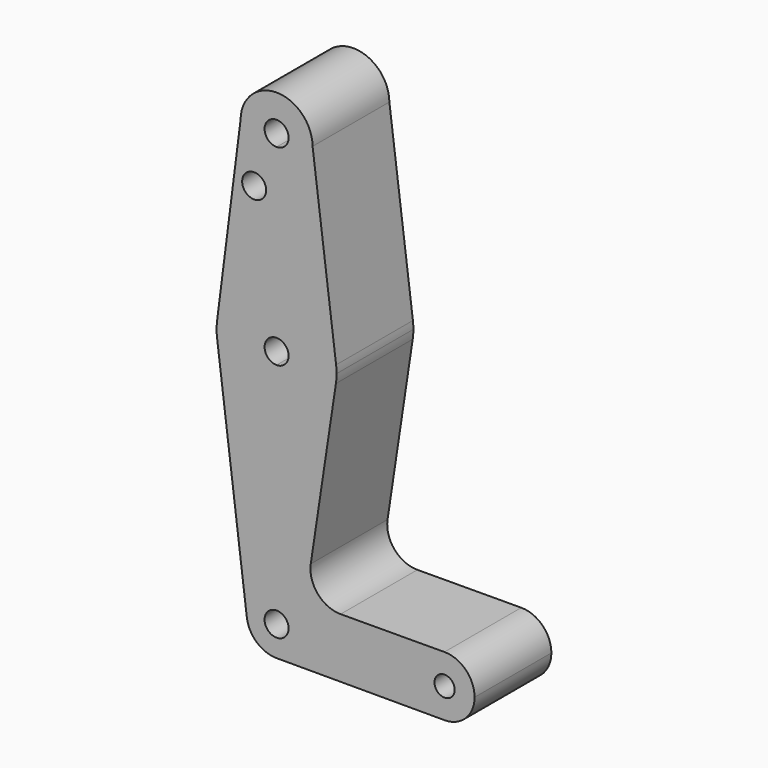
from build123d import *

# Parameters (mm, degrees)
F0_R     = 3.175
F0_R_2   = 2.6811430303
F1_DEPTH = 25.4
F2_DEPTH = 25.4
F3_DEPTH = 25.4


with BuildPart() as f1:
    # F0 (on Front) → F1 (new body)
    with BuildSketch(Plane.XZ):
        with BuildLine():
            ThreePointArc((-9.5246666481, 50.8796884045), (-6.7633075138, 44.0930411904), (0, 41.275))
            ThreePointArc((0, 41.275), (6.7351920908, 44.0648079092), (9.525, 50.8))
            ThreePointArc((9.525, 50.8), (9.5249382463, 50.8342987513), (9.524752986, 50.8685970579))
            ThreePointArc((9.524752986, 50.8685970579), (0.0055458414, 60.3249983855), (-9.5246666481, 50.8796884045))
        make_face()
        with BuildLine():
            ThreePointArc((3.175, 50.8), (2.2450640303, 48.5549359697), (0, 47.625))
            ThreePointArc((0, 47.625), (-2.2450640303, 53.0450640303), (3.175, 50.8))
        make_face(mode=Mode.SUBTRACT)
        with BuildLine():
            ThreePointArc((9.525, 50.8), (6.7351920908, 44.0648079092), (0, 41.275))
            Line((0, 41.275), (0, 36.5252))
            Line((0, 36.5252), (0, 15.875))
            ThreePointArc((0, 15.875), (10.4923027044, 11.9133206521), (15.7478005035, 2.0055932546))
            Line((15.7478005035, 2.0055932546), (9.524752986, 50.8685970579))
            ThreePointArc((9.524752986, 50.8685970579), (9.5249382463, 50.8342987513), (9.525, 50.8))
        make_face()
        with BuildLine():
            Line((0, 36.5252), (0, 41.275))
            ThreePointArc((0, 41.275), (-6.7633075138, 44.0930411904), (-9.5246666481, 50.8796884045))
            Line((-9.5246666481, 50.8796884045), (-15.747854052, 2.0051727503))
            ThreePointArc((-15.747854052, 2.0051727503), (-10.4924617605, 11.9131805663), (0, 15.875))
            Line((0, 15.875), (0, 36.5252))
        make_face()
        with Locations((-5.9342440218, 36.6497449577)):
            Circle(F0_R, mode=Mode.SUBTRACT)
        with BuildLine():
            ThreePointArc((15.7478005035, 2.0055932546), (10.4923027044, 11.9133206521), (0, 15.875))
            Line((0, 15.875), (0, 3.175))
            ThreePointArc((0, 3.175), (2.2450640303, 2.2450640303), (3.175, 0))
            ThreePointArc((3.175, 0), (2.2450640303, -2.2450640303), (0, -3.175))
            Line((0, -3.175), (0, -15.875))
            ThreePointArc((0, -15.875), (10.3554540779, -12.0324642464), (15.697843269, -2.3650246727))
            ThreePointArc((15.697843269, -2.3650246727), (15.8306488638, -1.1858252622), (15.875, 0))
            ThreePointArc((15.875, 0), (15.8431682121, 1.004811427), (15.7478005035, 2.0055932546))
        make_face()
        with BuildLine():
            Line((0, 3.175), (0, 15.875))
            ThreePointArc((0, 15.875), (-10.4924617605, 11.9131805663), (-15.747854052, 2.0051727503))
            ThreePointArc((-15.747854052, 2.0051727503), (-15.8742138864, -0.1579825563), (-15.7048272525, -2.3181945497))
            ThreePointArc((-15.7048272525, -2.3181945497), (-10.3733862968, -12.0170080194), (0, -15.875))
            Line((0, -15.875), (0, -3.175))
            ThreePointArc((0, -3.175), (-3.175, 0), (0, 3.175))
        make_face()
        with BuildLine():
            ThreePointArc((0, -15.875), (-10.3733862968, -12.0170080194), (-15.7048272525, -2.3181945497))
            Line((-15.7048272525, -2.3181945497), (-7.8753007349, -64.4917381631))
            ThreePointArc((-7.8753007349, -64.4917381631), (-5.9529752192, -58.2496674115), (0, -55.5625))
            Line((0, -55.5625), (0, -15.875))
        make_face()
        with BuildLine():
            ThreePointArc((15.697843269, -2.3650246727), (10.3554540779, -12.0324642464), (0, -15.875))
            Line((0, -15.875), (0, -55.5625))
            ThreePointArc((0, -55.5625), (5.6126600757, -57.8873399243), (7.9375, -63.5))
            ThreePointArc((7.9375, -63.5), (5.6126600757, -69.1126600757), (0, -71.4375))
            Line((0, -71.4375), (44.45, -71.4375))
            ThreePointArc((44.45, -71.4375), (36.5125174611, -63.5166491853), (44.4167017026, -55.5625698445))
            Line((44.4167017026, -55.5625698445), (16.9368082183, -55.6778506909))
            ThreePointArc((16.9368082183, -55.6778506909), (10.8884896462, -52.9263600902), (9.0419767345, -46.543316291))
            Line((9.0419767345, -46.543316291), (15.697843269, -2.3650246727))
        make_face()
        with BuildLine():
            ThreePointArc((0, -55.5625), (-5.9529752192, -58.2496674115), (-7.8753007349, -64.4917381631))
            ThreePointArc((-7.8753007349, -64.4917381631), (-5.2503325885, -69.4529752192), (0, -71.4375))
            ThreePointArc((0, -71.4375), (5.6126600757, -69.1126600757), (7.9375, -63.5))
            ThreePointArc((7.9375, -63.5), (5.6126600757, -57.8873399243), (0, -55.5625))
        make_face()
        with BuildLine():
            ThreePointArc((3.175, -63.5), (-2.2450640303, -65.7450640303), (0, -60.325))
            ThreePointArc((0, -60.325), (2.2450640303, -61.2549359697), (3.175, -63.5))
        make_face(mode=Mode.SUBTRACT)
        with BuildLine():
            ThreePointArc((44.4167017026, -55.5625698445), (36.5125174611, -63.5166491853), (44.45, -71.4375))
            ThreePointArc((44.45, -71.4375), (50.0626600757, -69.1126600757), (52.3875, -63.5))
            ThreePointArc((52.3875, -63.5), (50.0508749769, -57.8755795194), (44.4167017026, -55.5625698445))
        make_face()
        with Locations((44.45, -63.5)):
            Circle(F0_R_2, mode=Mode.SUBTRACT)
    extrude(amount=F1_DEPTH)

    # F0 (on Front) → F2 (join)
    with BuildSketch(Plane.XZ):
        with BuildLine():
            ThreePointArc((-9.5246666481, 50.8796884045), (-6.7633075138, 44.0930411904), (0, 41.275))
            ThreePointArc((0, 41.275), (6.7351920908, 44.0648079092), (9.525, 50.8))
            ThreePointArc((9.525, 50.8), (9.5249382463, 50.8342987513), (9.524752986, 50.8685970579))
            ThreePointArc((9.524752986, 50.8685970579), (0.0055458414, 60.3249983855), (-9.5246666481, 50.8796884045))
        make_face()
        with BuildLine():
            ThreePointArc((3.175, 50.8), (2.2450640303, 48.5549359697), (0, 47.625))
            ThreePointArc((0, 47.625), (-2.2450640303, 53.0450640303), (3.175, 50.8))
        make_face(mode=Mode.SUBTRACT)
        with BuildLine():
            ThreePointArc((9.525, 50.8), (6.7351920908, 44.0648079092), (0, 41.275))
            Line((0, 41.275), (0, 36.5252))
            Line((0, 36.5252), (0, 15.875))
            ThreePointArc((0, 15.875), (10.4923027044, 11.9133206521), (15.7478005035, 2.0055932546))
            Line((15.7478005035, 2.0055932546), (9.524752986, 50.8685970579))
            ThreePointArc((9.524752986, 50.8685970579), (9.5249382463, 50.8342987513), (9.525, 50.8))
        make_face()
        with BuildLine():
            Line((0, 36.5252), (0, 41.275))
            ThreePointArc((0, 41.275), (-6.7633075138, 44.0930411904), (-9.5246666481, 50.8796884045))
            Line((-9.5246666481, 50.8796884045), (-15.747854052, 2.0051727503))
            ThreePointArc((-15.747854052, 2.0051727503), (-10.4924617605, 11.9131805663), (0, 15.875))
            Line((0, 15.875), (0, 36.5252))
        make_face()
        with Locations((-5.9342440218, 36.6497449577)):
            Circle(F0_R, mode=Mode.SUBTRACT)
        with BuildLine():
            ThreePointArc((15.7478005035, 2.0055932546), (10.4923027044, 11.9133206521), (0, 15.875))
            Line((0, 15.875), (0, 3.175))
            ThreePointArc((0, 3.175), (2.2450640303, 2.2450640303), (3.175, 0))
            ThreePointArc((3.175, 0), (2.2450640303, -2.2450640303), (0, -3.175))
            Line((0, -3.175), (0, -15.875))
            ThreePointArc((0, -15.875), (10.3554540779, -12.0324642464), (15.697843269, -2.3650246727))
            ThreePointArc((15.697843269, -2.3650246727), (15.8306488638, -1.1858252622), (15.875, 0))
            ThreePointArc((15.875, 0), (15.8431682121, 1.004811427), (15.7478005035, 2.0055932546))
        make_face()
        with BuildLine():
            Line((0, 3.175), (0, 15.875))
            ThreePointArc((0, 15.875), (-10.4924617605, 11.9131805663), (-15.747854052, 2.0051727503))
            ThreePointArc((-15.747854052, 2.0051727503), (-15.8742138864, -0.1579825563), (-15.7048272525, -2.3181945497))
            ThreePointArc((-15.7048272525, -2.3181945497), (-10.3733862968, -12.0170080194), (0, -15.875))
            Line((0, -15.875), (0, -3.175))
            ThreePointArc((0, -3.175), (-3.175, 0), (0, 3.175))
        make_face()
        with BuildLine():
            ThreePointArc((0, -15.875), (-10.3733862968, -12.0170080194), (-15.7048272525, -2.3181945497))
            Line((-15.7048272525, -2.3181945497), (-7.8753007349, -64.4917381631))
            ThreePointArc((-7.8753007349, -64.4917381631), (-5.9529752192, -58.2496674115), (0, -55.5625))
            Line((0, -55.5625), (0, -15.875))
        make_face()
        with BuildLine():
            ThreePointArc((15.697843269, -2.3650246727), (10.3554540779, -12.0324642464), (0, -15.875))
            Line((0, -15.875), (0, -55.5625))
            ThreePointArc((0, -55.5625), (5.6126600757, -57.8873399243), (7.9375, -63.5))
            ThreePointArc((7.9375, -63.5), (5.6126600757, -69.1126600757), (0, -71.4375))
            Line((0, -71.4375), (44.45, -71.4375))
            ThreePointArc((44.45, -71.4375), (36.5125174611, -63.5166491853), (44.4167017026, -55.5625698445))
            Line((44.4167017026, -55.5625698445), (16.9368082183, -55.6778506909))
            ThreePointArc((16.9368082183, -55.6778506909), (10.8884896462, -52.9263600902), (9.0419767345, -46.543316291))
            Line((9.0419767345, -46.543316291), (15.697843269, -2.3650246727))
        make_face()
        with BuildLine():
            ThreePointArc((0, -55.5625), (-5.9529752192, -58.2496674115), (-7.8753007349, -64.4917381631))
            ThreePointArc((-7.8753007349, -64.4917381631), (-5.2503325885, -69.4529752192), (0, -71.4375))
            ThreePointArc((0, -71.4375), (5.6126600757, -69.1126600757), (7.9375, -63.5))
            ThreePointArc((7.9375, -63.5), (5.6126600757, -57.8873399243), (0, -55.5625))
        make_face()
        with BuildLine():
            ThreePointArc((3.175, -63.5), (-2.2450640303, -65.7450640303), (0, -60.325))
            ThreePointArc((0, -60.325), (2.2450640303, -61.2549359697), (3.175, -63.5))
        make_face(mode=Mode.SUBTRACT)
        with BuildLine():
            ThreePointArc((44.4167017026, -55.5625698445), (36.5125174611, -63.5166491853), (44.45, -71.4375))
            ThreePointArc((44.45, -71.4375), (50.0626600757, -69.1126600757), (52.3875, -63.5))
            ThreePointArc((52.3875, -63.5), (50.0508749769, -57.8755795194), (44.4167017026, -55.5625698445))
        make_face()
        with Locations((44.45, -63.5)):
            Circle(F0_R_2, mode=Mode.SUBTRACT)
    extrude(amount=F2_DEPTH)

    # F0 (on Front) → F3 (join)
    with BuildSketch(Plane.XZ):
        with BuildLine():
            ThreePointArc((-9.5246666481, 50.8796884045), (-6.7633075138, 44.0930411904), (0, 41.275))
            ThreePointArc((0, 41.275), (6.7351920908, 44.0648079092), (9.525, 50.8))
            ThreePointArc((9.525, 50.8), (9.5249382463, 50.8342987513), (9.524752986, 50.8685970579))
            ThreePointArc((9.524752986, 50.8685970579), (0.0055458414, 60.3249983855), (-9.5246666481, 50.8796884045))
        make_face()
        with BuildLine():
            ThreePointArc((3.175, 50.8), (2.2450640303, 48.5549359697), (0, 47.625))
            ThreePointArc((0, 47.625), (-2.2450640303, 53.0450640303), (3.175, 50.8))
        make_face(mode=Mode.SUBTRACT)
        with BuildLine():
            ThreePointArc((9.525, 50.8), (6.7351920908, 44.0648079092), (0, 41.275))
            Line((0, 41.275), (0, 36.5252))
            Line((0, 36.5252), (0, 15.875))
            ThreePointArc((0, 15.875), (10.4923027044, 11.9133206521), (15.7478005035, 2.0055932546))
            Line((15.7478005035, 2.0055932546), (9.524752986, 50.8685970579))
            ThreePointArc((9.524752986, 50.8685970579), (9.5249382463, 50.8342987513), (9.525, 50.8))
        make_face()
        with BuildLine():
            Line((0, 36.5252), (0, 41.275))
            ThreePointArc((0, 41.275), (-6.7633075138, 44.0930411904), (-9.5246666481, 50.8796884045))
            Line((-9.5246666481, 50.8796884045), (-15.747854052, 2.0051727503))
            ThreePointArc((-15.747854052, 2.0051727503), (-10.4924617605, 11.9131805663), (0, 15.875))
            Line((0, 15.875), (0, 36.5252))
        make_face()
        with Locations((-5.9342440218, 36.6497449577)):
            Circle(F0_R, mode=Mode.SUBTRACT)
        with BuildLine():
            ThreePointArc((15.7478005035, 2.0055932546), (10.4923027044, 11.9133206521), (0, 15.875))
            Line((0, 15.875), (0, 3.175))
            ThreePointArc((0, 3.175), (2.2450640303, 2.2450640303), (3.175, 0))
            ThreePointArc((3.175, 0), (2.2450640303, -2.2450640303), (0, -3.175))
            Line((0, -3.175), (0, -15.875))
            ThreePointArc((0, -15.875), (10.3554540779, -12.0324642464), (15.697843269, -2.3650246727))
            ThreePointArc((15.697843269, -2.3650246727), (15.8306488638, -1.1858252622), (15.875, 0))
            ThreePointArc((15.875, 0), (15.8431682121, 1.004811427), (15.7478005035, 2.0055932546))
        make_face()
        with BuildLine():
            Line((0, 3.175), (0, 15.875))
            ThreePointArc((0, 15.875), (-10.4924617605, 11.9131805663), (-15.747854052, 2.0051727503))
            ThreePointArc((-15.747854052, 2.0051727503), (-15.8742138864, -0.1579825563), (-15.7048272525, -2.3181945497))
            ThreePointArc((-15.7048272525, -2.3181945497), (-10.3733862968, -12.0170080194), (0, -15.875))
            Line((0, -15.875), (0, -3.175))
            ThreePointArc((0, -3.175), (-3.175, 0), (0, 3.175))
        make_face()
        with BuildLine():
            ThreePointArc((0, -15.875), (-10.3733862968, -12.0170080194), (-15.7048272525, -2.3181945497))
            Line((-15.7048272525, -2.3181945497), (-7.8753007349, -64.4917381631))
            ThreePointArc((-7.8753007349, -64.4917381631), (-5.9529752192, -58.2496674115), (0, -55.5625))
            Line((0, -55.5625), (0, -15.875))
        make_face()
        with BuildLine():
            ThreePointArc((15.697843269, -2.3650246727), (10.3554540779, -12.0324642464), (0, -15.875))
            Line((0, -15.875), (0, -55.5625))
            ThreePointArc((0, -55.5625), (5.6126600757, -57.8873399243), (7.9375, -63.5))
            ThreePointArc((7.9375, -63.5), (5.6126600757, -69.1126600757), (0, -71.4375))
            Line((0, -71.4375), (44.45, -71.4375))
            ThreePointArc((44.45, -71.4375), (36.5125174611, -63.5166491853), (44.4167017026, -55.5625698445))
            Line((44.4167017026, -55.5625698445), (16.9368082183, -55.6778506909))
            ThreePointArc((16.9368082183, -55.6778506909), (10.8884896462, -52.9263600902), (9.0419767345, -46.543316291))
            Line((9.0419767345, -46.543316291), (15.697843269, -2.3650246727))
        make_face()
        with BuildLine():
            ThreePointArc((0, -55.5625), (-5.9529752192, -58.2496674115), (-7.8753007349, -64.4917381631))
            ThreePointArc((-7.8753007349, -64.4917381631), (-5.2503325885, -69.4529752192), (0, -71.4375))
            ThreePointArc((0, -71.4375), (5.6126600757, -69.1126600757), (7.9375, -63.5))
            ThreePointArc((7.9375, -63.5), (5.6126600757, -57.8873399243), (0, -55.5625))
        make_face()
        with BuildLine():
            ThreePointArc((3.175, -63.5), (-2.2450640303, -65.7450640303), (0, -60.325))
            ThreePointArc((0, -60.325), (2.2450640303, -61.2549359697), (3.175, -63.5))
        make_face(mode=Mode.SUBTRACT)
        with BuildLine():
            ThreePointArc((44.4167017026, -55.5625698445), (36.5125174611, -63.5166491853), (44.45, -71.4375))
            ThreePointArc((44.45, -71.4375), (50.0626600757, -69.1126600757), (52.3875, -63.5))
            ThreePointArc((52.3875, -63.5), (50.0508749769, -57.8755795194), (44.4167017026, -55.5625698445))
        make_face()
        with Locations((44.45, -63.5)):
            Circle(F0_R_2, mode=Mode.SUBTRACT)
    extrude(amount=F3_DEPTH)


solid = f1.part
